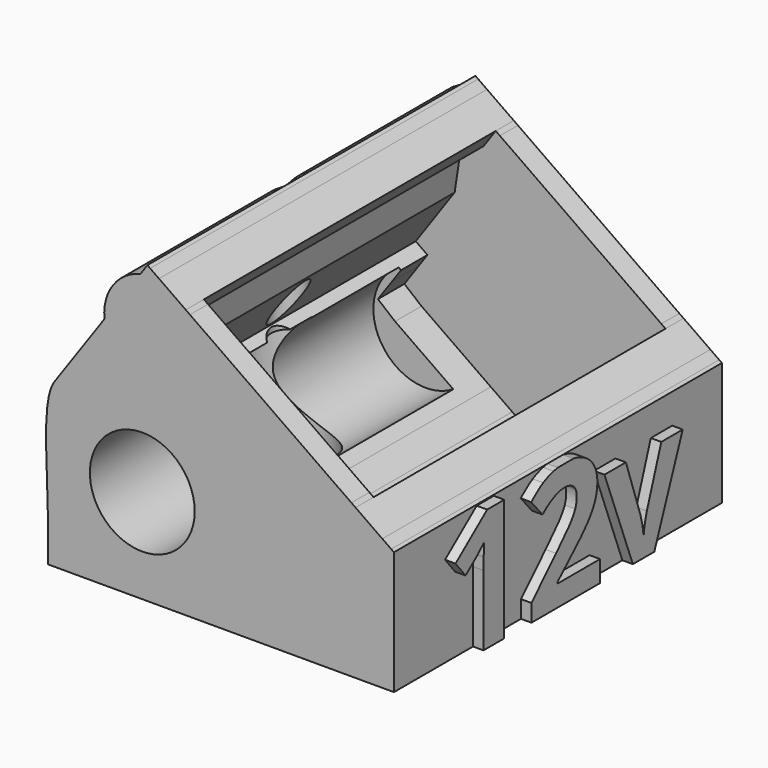
from build123d import *

# Parameters (mm, degrees)
F1_DEPTH = 19.55
F2_DEPTH = 17.4
F3_R     = 5
F4_DEPTH = 33.8
F5_R     = 1.65
F6_DEPTH = 28.3
F7_START = 2
F5_R_2   = 4
F7_DEPTH = 11.3
F9_DEPTH = 1


with BuildPart() as f1:
    # F0 (on Front) → F1 (new body, symmetric)
    with BuildSketch(Plane.XZ):
        Polygon((-31.2942431747, 14.7351894004), (-27.2234276076, 11.8847736536), (-26.363062953, 13.1135017201), (-27.4849311608, 13.899042296), (-23.7686361102, 19.206461665), (-23.2646830819, 22.5413513713), (-20.9963750326, 24.0050014481), (-19.8492221599, 25.6433055367), (-22.4038084113, 27.4320460869), (-23.0309787856, 26.5363539669), (-26.4724374037, 21.6214417012), align=None)
        Polygon((-13.3476336371, 4), (-11.4657529288, 4), (-8.3685776775, 8.4232246616), (-4.0548026192, 14.5839339127), (-19.4548610519, 25.3671709161), (-22.0359550154, 21.6809867168), (-23.7686361102, 19.206461665), (-27.4849311608, 13.899042296), (-26.363062953, 13.1135017201), (-13.6602841024, 4.2189202126), align=None)
        Polygon((-4.0548026192, 14.5839339127), (-8.3685776775, 8.4232246616), (-5.4071685164, 10.0373850588), (-4.8075943839, 12.6694952034), (-3.6604415112, 14.307799292), align=None)
        Polygon((-11.4657529288, 4), (-7.0709644092, 4), (-5.1744842522, 6.7084543561), (-1.7330256341, 11.6233666218), (-1.1058552598, 12.5190587418), (-3.6604415112, 14.307799292), (-4.8075943839, 12.6694952034), (-5.4071685164, 10.0373850588), (-8.3685776775, 8.4232246616), align=None)
        Polygon((-15.9628038305, 4), (-14.5206487569, 2.9901921462), (-13.8135736855, 4), align=None)
        Polygon((-10.2502118035, 0), (-9.8717945621, 0), (-7.0709644092, 4), (-11.4657529288, 4), (-12.0848727281, 3.1158052926), (-13.3476336371, 4), (-13.8135736855, 4), (-14.5206487569, 2.9901921462), align=None)
        Polygon((-12.0848727281, 3.1158052926), (-11.4657529288, 4), (-13.3476336371, 4), align=None)
        Polygon((-7.0709644092, 4), (0, 4), (0, 7.8723652764), (0, 11.7447305527), (-0.2621286542, 11.9282750123), (-2.2487850863, 9.0910355887), (-2.4090210327, 8.3042919667), (-5.1744842522, 6.7084543561), align=None)
        Polygon((-1.7330256341, 11.6233666218), (-5.1744842522, 6.7084543561), (-2.4090210327, 8.3042919667), (-2.2487850863, 9.0910355887), align=None)
        Polygon((-1.1058552598, 12.5190587418), (-1.7330256341, 11.6233666218), (-2.2487850863, 9.0910355887), (-0.2621286542, 11.9282750123), align=None)
        Polygon((-9.8717945621, 0), (0, 0), (0, 4), (-7.0709644092, 4), align=None)
        Polygon((-33, 0), (-10.2502118035, 0), (-14.5206487569, 2.9901921462), (-15.9545898478, 0.9423120355), (-18.2746913921, 2.5668646262), (-20.3214208196, 4), (-33, 4), align=None)
        with BuildLine():
            add(Edge.make_bspline(
                [(-32.4000984345, 15.5095175895), (-33.6793400347, 13.5531779379), (-33, 7.9824011773), (-33, 4)],
                knots=[0, 0, 0, 0, 11.5251410851, 11.5251410851, 11.5251410851, 11.5251410851], degree=3))
            Line((-33, 4), (-20.3214208196, 4))
            Line((-20.3214208196, 4), (-26.931365039, 8.6283327696))
            Line((-26.931365039, 8.6283327696), (-28.564712408, 9.9692204393))
            Line((-28.564712408, 9.9692204393), (-27.2234276076, 11.8847736536))
            Line((-27.2234276076, 11.8847736536), (-31.2942431747, 14.7351894004))
            Line((-31.2942431747, 14.7351894004), (-32.4000984345, 15.5095175895))
        make_face()
        Polygon((-27.6068595339, 22.3549721713), (-32.4000984345, 15.5095175895), (-31.2942431747, 14.7351894004), (-26.4724374037, 21.6214417012), (-25.9186847038, 24.76593569), align=None)
        Polygon((-23.7686361102, 19.206461665), (-22.0359550154, 21.6809867168), (-23.2646830819, 22.5413513713), align=None)
        Polygon((-22.0359550154, 21.6809867168), (-19.4548610519, 25.3671709161), (-19.8492221599, 25.6433055367), (-20.9963750326, 24.0050014481), (-23.2646830819, 22.5413513713), align=None)
        Polygon((-25.9186847038, 24.76593569), (-26.4724374037, 21.6214417012), (-23.0309787856, 26.5363539669), (-25.2341914491, 25.1855903927), align=None)
        Polygon((-25.2341914491, 25.1855903927), (-23.0309787856, 26.5363539669), (-22.4038084113, 27.4320460869), (-23.2475350169, 28.0228298164), align=None)
        Polygon((-24.1761827572, 27.2544863717), (-25.9186847038, 24.76593569), (-25.2341914491, 25.1855903927), (-23.2475350169, 28.0228298164), (-23.5096636711, 28.206374276), align=None)
        Polygon((-27.2234276076, 11.8847736536), (-15.9628038305, 4), (-13.8135736855, 4), (-13.6602841024, 4.2189202126), (-26.363062953, 13.1135017201), align=None)
        Polygon((-20.3214208196, 4), (-15.9628038305, 4), (-27.2234276076, 11.8847736536), (-28.564712408, 9.9692204393), (-26.931365039, 8.6283327696), align=None)
        Polygon((-10.2502118035, 0), (-9.8717945621, 0), (-7.0709644092, 4), (-11.4657529288, 4), (-12.0848727281, 3.1158052926), (-13.3476336371, 4), (-13.8135736855, 4), (-14.5206487569, 2.9901921462), align=None)
        Polygon((-13.6602841024, 4.2189202126), (-13.8135736855, 4), (-13.3476336371, 4), align=None)
        Polygon((-15.9545898478, 0.9423120355), (-14.5206487569, 2.9901921462), (-15.9628038305, 4), (-20.3214208196, 4), (-18.2746913921, 2.5668646262), align=None)
        with BuildLine():
            ThreePointArc((-24.1761827572, 27.2544863717), (-26.8028128996, 25.4428226271), (-27.6068595339, 22.3549721713))
            Line((-27.6068595339, 22.3549721713), (-25.9186847038, 24.76593569))
            Line((-25.9186847038, 24.76593569), (-24.1761827572, 27.2544863717))
        make_face()
    extrude(amount=F1_DEPTH, both=True)

    # F0 (on Front) → F2 (cut, symmetric)
    with BuildSketch(Plane.XZ):
        Polygon((-23.7686361102, 19.206461665), (-22.0359550154, 21.6809867168), (-23.2646830819, 22.5413513713), align=None)
        Polygon((-22.0359550154, 21.6809867168), (-19.4548610519, 25.3671709161), (-19.8492221599, 25.6433055367), (-20.9963750326, 24.0050014481), (-23.2646830819, 22.5413513713), align=None)
        Polygon((-13.3476336371, 4), (-11.4657529288, 4), (-8.3685776775, 8.4232246616), (-4.0548026192, 14.5839339127), (-19.4548610519, 25.3671709161), (-22.0359550154, 21.6809867168), (-23.7686361102, 19.206461665), (-27.4849311608, 13.899042296), (-26.363062953, 13.1135017201), (-13.6602841024, 4.2189202126), align=None)
        Polygon((-4.0548026192, 14.5839339127), (-8.3685776775, 8.4232246616), (-5.4071685164, 10.0373850588), (-4.8075943839, 12.6694952034), (-3.6604415112, 14.307799292), align=None)
        Polygon((-12.0848727281, 3.1158052926), (-11.4657529288, 4), (-13.3476336371, 4), align=None)
        Polygon((-20.3214208196, 4), (-15.9628038305, 4), (-27.2234276076, 11.8847736536), (-28.564712408, 9.9692204393), (-26.931365039, 8.6283327696), align=None)
        Polygon((-27.2234276076, 11.8847736536), (-15.9628038305, 4), (-13.8135736855, 4), (-13.6602841024, 4.2189202126), (-26.363062953, 13.1135017201), align=None)
        Polygon((-15.9545898478, 0.9423120355), (-14.5206487569, 2.9901921462), (-15.9628038305, 4), (-20.3214208196, 4), (-18.2746913921, 2.5668646262), align=None)
        Polygon((-15.9628038305, 4), (-14.5206487569, 2.9901921462), (-13.8135736855, 4), align=None)
    extrude(amount=F2_DEPTH, both=True, mode=Mode.SUBTRACT)

    # F3 (on face) → F4 (cut)
    with BuildSketch(Plane.XZ.offset(19.55)):
        with Locations((-24, 9)):
            Circle(F3_R)
    extrude(amount=-F4_DEPTH, mode=Mode.SUBTRACT)

    # F5 (on Top) → F6 (cut)
    with BuildSketch(Plane.XY):
        with Locations((-25.6944764405, 0)):
            Circle(F5_R)
    extrude(amount=F6_DEPTH, mode=Mode.SUBTRACT)

    # F5 (on Top) → F7 (cut)
    with BuildSketch(Plane.XY.offset(F7_START)):
        with Locations((-25.6944764405, 0)):
            Circle(F5_R_2)
        with Locations((-25.6944764405, 0)):
            Circle(F5_R, mode=Mode.SUBTRACT)
    extrude(amount=F7_DEPTH, mode=Mode.SUBTRACT)

    # F8 (on face) → F9 (join)
    with BuildSketch(Plane.YZ):
        with BuildLine():
            Line((-10.1253291134, 0), (-7.6498433786, 0))
            Line((-7.6498433786, 0), (-7.6498433786, 11.6447885821))
            Line((-7.6498433786, 11.6447885821), (-9.6845593966, 11.6447885821))
            Line((-9.6845593966, 11.6447885821), (-13.4567281352, 8.6414042331))
            Line((-13.4567281352, 8.6414042331), (-12.2625497166, 7.1525251318))
            Line((-12.2625497166, 7.1525251318), (-10.9171770347, 8.2339485066))
            add(Edge.make_bspline(
                [(-10.0612637475, 9.0411721157), (-10.6762912593, 8.426144604), (-10.9171770347, 8.2339485066)],
                knots=[0, 0, 0, 1, 1, 1], degree=2))
            Line((-10.0612637475, 9.0411721157), (-10.099702967, 7.8239301654))
            Line((-10.099702967, 7.8239301654), (-10.1253291134, 6.7117554151))
            Line((-10.1253291134, 6.7117554151), (-10.1253291134, 0))
        make_face()
        with BuildLine():
            Line((-4.4081358689, 1.6582793603), (-4.4081358689, 0))
            Line((-4.4081358689, 0), (3.7768552664, 0))
            Line((3.7768552664, 0), (3.7768552664, 2.0196080235))
            Line((3.7768552664, 2.0196080235), (-1.3253104663, 2.0196080235))
            Line((-1.3253104663, 2.0196080235), (-1.3253104663, 2.1298004527))
            Line((-1.3253104663, 2.1298004527), (0.1815069374, 3.5469263443))
            add(Edge.make_bspline(
                [(2.2828509358, 5.6700525671), (1.6857617265, 4.9256130164), (0.1815069374, 3.5469263443)],
                knots=[0, 0, 0, 1, 1, 1], degree=2))
            add(Edge.make_bspline(
                [(3.1643903693, 7.1230550635), (2.8799401451, 6.4144921177), (2.2828509358, 5.6700525671)],
                knots=[0, 0, 0, 1, 1, 1], degree=2))
            add(Edge.make_bspline(
                [(3.4488405935, 8.6414042331), (3.4488405935, 7.8316180093), (3.1643903693, 7.1230550635)],
                knots=[0, 0, 0, 1, 1, 1], degree=2))
            add(Edge.make_bspline(
                [(2.9837260377, 10.2904467489), (3.4488405935, 9.56907073), (3.4488405935, 8.6414042331)],
                knots=[0, 0, 0, 1, 1, 1], degree=2))
            add(Edge.make_bspline(
                [(1.6780738826, 11.4115906505), (2.518611482, 11.0118227679), (2.9837260377, 10.2904467489)],
                knots=[0, 0, 0, 1, 1, 1], degree=2))
            add(Edge.make_bspline(
                [(0.5935596614, 11.7447305527), (1.1806843213, 11.6481539785), (1.6780738826, 11.4115906505)],
                knots=[0.4082482905, 0.4082482905, 0.4082482905, 1, 1, 1], degree=2))
            Line((0.5935596614, 11.7447305527), (-1.255875681, 11.7447305527))
            add(Edge.make_bspline(
                [(-1.7647988758, 11.6473511967), (-1.5208676322, 11.706823957), (-1.255875681, 11.7447305527)],
                knots=[0, 0, 0, 0.3626225608, 0.3626225608, 0.3626225608], degree=2))
            add(Edge.make_bspline(
                [(-3.0063856651, 11.1796740263), (-2.4374852167, 11.4833438602), (-1.7647988758, 11.6473511967)],
                knots=[0, 0, 0, 1, 1, 1], degree=2))
            add(Edge.make_bspline(
                [(-4.4388872445, 10.1379711783), (-3.5752861134, 10.8760041924), (-3.0063856651, 11.1796740263)],
                knots=[0, 0, 0, 1, 1, 1], degree=2))
            Line((-4.4388872445, 10.1379711783), (-3.0935145626, 8.5440248771))
            add(Edge.make_bspline(
                [(-1.7558297246, 9.4332521545), (-2.3964833826, 9.1206131693), (-3.0935145626, 8.5440248771)],
                knots=[0, 0, 0, 1, 1, 1], degree=2))
            add(Edge.make_bspline(
                [(-0.436083189, 9.7458911396), (-1.1151760665, 9.7458911396), (-1.7558297246, 9.4332521545)],
                knots=[0, 0, 0, 1, 1, 1], degree=2))
            add(Edge.make_bspline(
                [(0.6017757371, 9.4012194716), (0.212258313, 9.7458911396), (-0.436083189, 9.7458911396)],
                knots=[0, 0, 0, 1, 1, 1], degree=2))
            add(Edge.make_bspline(
                [(0.9912931612, 8.3518287797), (0.9912931612, 9.0565478035), (0.6017757371, 9.4012194716)],
                knots=[0, 0, 0, 1, 1, 1], degree=2))
            add(Edge.make_bspline(
                [(0.8144727516, 7.4395379706), (0.9912931612, 7.8803076873), (0.9912931612, 8.3518287797)],
                knots=[0, 0, 0, 1, 1, 1], degree=2))
            add(Edge.make_bspline(
                [(0.2378844593, 6.4824014055), (0.6376523419, 6.9987682539), (0.8144727516, 7.4395379706)],
                knots=[0, 0, 0, 1, 1, 1], degree=2))
            add(Edge.make_bspline(
                [(-1.4688168857, 4.6283497191), (-0.1618834233, 5.9660345571), (0.2378844593, 6.4824014055)],
                knots=[0, 0, 0, 1, 1, 1], degree=2))
            Line((-1.4688168857, 4.6283497191), (-4.4081358689, 1.6582793603))
        make_face()
        with BuildLine():
            Line((4.2970660367, 8.8899778524), (7.6836031064, 0))
            Line((7.6836031064, 0), (10.2384644875, 0))
            Line((10.2384644875, 0), (13.6275459126, 8.8899778524))
            Line((13.6275459126, 8.8899778524), (11.0726191243, 8.8899778524))
            Line((11.0726191243, 8.8899778524), (9.3505420915, 3.7878121197))
            add(Edge.make_bspline(
                [(8.9892134283, 1.9555426577), (9.0302152624, 2.7243270473), (9.3505420915, 3.7878121197)],
                knots=[0, 0, 0, 1, 1, 1], degree=2))
            Line((8.9892134283, 1.9555426577), (8.9430863649, 1.9555426577))
            add(Edge.make_bspline(
                [(8.5817577018, 3.7878121197), (8.8687705406, 2.8191437887), (8.9430863649, 1.9555426577)],
                knots=[0, 0, 0, 1, 1, 1], degree=2))
            Line((8.5817577018, 3.7878121197), (6.851992825, 8.8899778524))
            Line((6.851992825, 8.8899778524), (4.2970660367, 8.8899778524))
        make_face()
    extrude(amount=F9_DEPTH)


solid = f1.part
